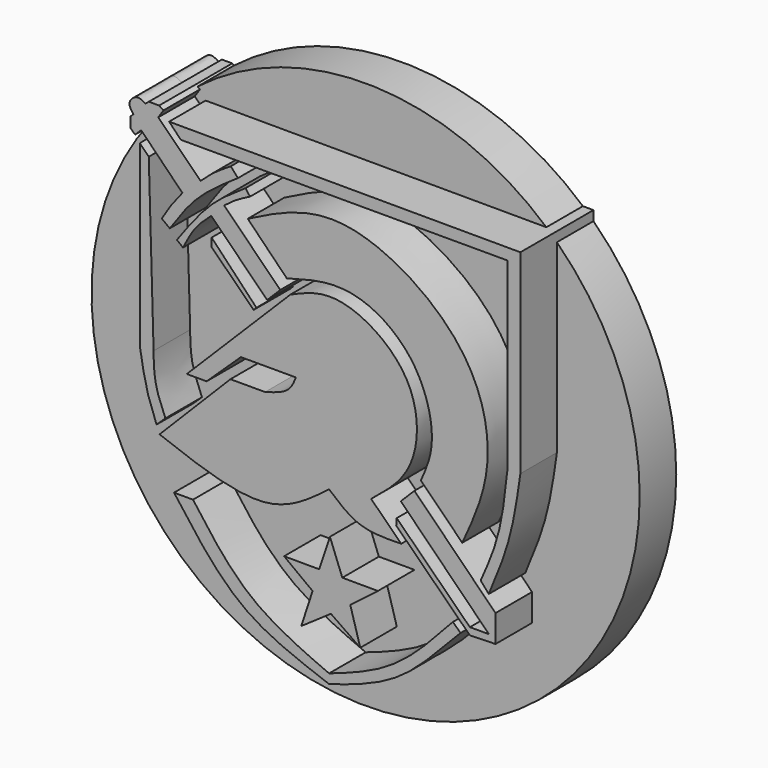
from build123d import *

# Parameters (mm, degrees)
F0_R          = 19.05
F1_DEPTH      = 3.175
F3_DEPTH      = 3.175
F3_DEPTH_BACK = 3.175


with BuildPart() as f1:
    # F0 (on Front) → F1 (new body)
    with BuildSketch(Plane.XZ):
        Circle(F0_R)
    extrude(amount=F1_DEPTH)

    # F2 (on face) → F3 (join, two sides)
    with BuildSketch(Plane.XZ.offset(3.175)) as f3_sk:
        with BuildLine():
            Line((13.2951065898, 14.3205206841), (-11.1195538193, 14.3741192296))
            Line((-11.1195538193, 14.3741192296), (-10.3040672839, 13.5272685438))
            Line((-10.3040672839, 13.5272685438), (12.4042537063, 13.5272685438))
            Line((12.4042537063, 13.5272685438), (12.4042537063, 0.7942219963))
            add(Edge.make_bspline(
                [(12.4042537063, 0.7942219963), (12.2437335062, -0.6935312294), (11.9411104332, -3.4983399235), (10.9847031297, -5.6485725407), (10.5356024578, -6.6582583822)],
                knots=[0, 0, 0, 0, 0.5304294831, 1, 1, 1, 1], degree=3))
            Line((10.5356024578, -6.6582583822), (11.0988598317, -7.3030013591))
            add(Edge.make_bspline(
                [(11.0988598317, -7.3030013591), (11.6204761786, -6.0557843594), (12.6803886436, -3.521467994), (13.0880620978, -0.6713659701), (13.2951065898, 0.7761109737)],
                knots=[0, 0, 0, 0, 0.4921315337, 1, 1, 1, 1], degree=3))
            Line((13.2951065898, 0.7761109737), (13.2951065898, 14.3205206841))
        make_face()
        Polygon((-0.6866836248, -9.621998817), (-3.1270722393, -9.6166413277), (-1.1461181566, -11.1010298133), (-1.9328042399, -13.5020688176), (0.1275643008, -12.078541331), (2.1668851841, -13.4953176603), (1.4733931748, -11.1010298133), (3.3938813927, -9.6218636439), (0.9196144529, -9.6164317802), (0.0594901867, -7.3895342648), align=None)
        Polygon((9.7805182455, -10.2559360764), (11.5665001795, -10.2110812441), (11.5665001795, -8.3170095459), (5.9328516945, -2.6671725791), (4.9845642127, -3.6127429321), (11.1126137586, -9.7584016382), (9.7857490182, -9.7584016382), (4.7025149688, -4.7393189743), (4.6662185341, -5.2061798051), align=None)
        with BuildLine():
            Line((5.0151818607, -6.2073378134), (2.9217640404, -4.1403393261))
            add(Edge.make_bspline(
                [(2.9217640404, -4.1403393261), (4.0017596573, -3.2783505651), (6.2967614913, -1.4466155502), (6.3046824324, 4.5741096828), (0.6642850808, 8.0186176921), (-1.6742123718, 6.9825088021), (-2.6909445878, 6.5320292488)],
                knots=[0, 0, 0, 0, 0.2371028445, 0.503845992, 0.7842820981, 1, 1, 1, 1], degree=3))
            Line((-2.6909445878, 6.5320292488), (-9.8898978904, -0.6679674261))
            Line((-9.8898978904, -0.6679674261), (-8.5116093978, -0.6679674261))
            Line((-8.5116093978, -0.6679674261), (-6.13187678, 1.5893031363))
            Line((-6.13187678, 1.5893031363), (-2.3093123455, 1.5893031363))
            add(Edge.make_bspline(
                [(-2.3093123455, 1.5893031363), (-2.4412960331, 1.2516102423), (-2.7400240864, 0.4872859334), (-3.8346557693, 0.1745585357), (-4.445658531, 0)],
                knots=[0, 0, 0, 0, 0.441818859, 1, 1, 1, 1], degree=3))
            Line((-4.445658531, 0), (-6.857663393, 0))
            Line((-6.857663393, 0), (-11.7843858898, -4.9744602293))
            add(Edge.make_bspline(
                [(-11.7843858898, -4.9744602293), (-9.1052590566, -5.9842742459), (-4.2944262342, -7.7975689191), (-1.3186032332, -5.5161550663), (0, -4.5052482747)],
                knots=[0, 0, 0, 0, 0.5568946027, 1, 1, 1, 1], degree=3))
            add(Edge.make_bspline(
                [(0, -4.5052482747), (0.6645308371, -5.0850922819), (2.0325680841, -6.2787888796), (4.0022715592, -6.2316029467), (5.0151818607, -6.2073378134)],
                knots=[0, 0, 0, 0, 0.48575493, 1, 1, 1, 1], degree=3))
        make_face()
        with BuildLine():
            Line((9.138203226, -10.324401781), (8.6039779708, -9.8225530237))
            add(Edge.make_bspline(
                [(8.6039779708, -9.8225530237), (7.2581361134, -11.3018518624), (4.6817260383, -14.1337450832), (1.5133218063, -15.2414152892), (0, -15.7704707235)],
                knots=[0, 0, 0, 0, 0.5223709806, 1, 1, 1, 1], degree=3))
            add(Edge.make_bspline(
                [(-9.4586806372, -8.2151796669), (-8.2283692319, -9.8966299336), (-5.7644876665, -13.2639841641), (-1.9231894023, -14.9342388384), (0, -15.7704707235)],
                knots=[0, 0, 0, 0, 0.4993386949, 1, 1, 1, 1], degree=3))
            Line((-9.4586806372, -8.2151796669), (-10.7790241018, -8.2151796669))
            add(Edge.make_bspline(
                [(-10.7790241018, -8.2151796669), (-9.2866257772, -10.216307173), (-6.422821017, -14.1998498946), (-1.9977948837, -15.6756193291), (0, -16.4241865277)],
                knots=[0, 0, 0, 0, 0.5129628819, 1, 1, 1, 1], degree=3))
            add(Edge.make_bspline(
                [(9.138203226, -10.324401781), (7.6101712009, -11.8742374182), (5.1667983891, -14.7564398611), (1.7739776455, -15.8896886405), (0, -16.4241865277)],
                knots=[0, 0, 0, 0, 0.5144292418, 1, 1, 1, 1], degree=3))
        make_face()
        with BuildLine():
            Line((6.3793524168, -1.8924199976), (9.2547759414, -4.7678421251))
            add(Edge.make_bspline(
                [(-5.6524286047, 10.2112814784), (-3.6168299799, 11.2475901318), (0.8400975189, 13.5165799408), (10.0967712781, 7.8999192805), (11.6439949159, 0.4259003835), (10.018497176, -3.1076462689), (9.2547759414, -4.7678421251)],
                knots=[0, 0, 0, 0, 0.2433038431, 0.5327118892, 0.7804501082, 1, 1, 1, 1], degree=3))
            Line((-5.6524286047, 10.2112814784), (-2.9393755831, 7.4468469247))
            add(Edge.make_bspline(
                [(-2.9393755831, 7.4468469247), (-1.502485499, 7.851908623), (1.4748090248, 8.691212888), (6.2073016389, 5.7823119551), (7.5729609076, 0.7932677253), (6.7397473926, -1.0815105835), (6.3793524168, -1.8924199976)],
                knots=[0, 0, 0, 0, 0.255622974, 0.5296611682, 0.7965614469, 1, 1, 1, 1], degree=3))
        make_face()
        with BuildLine():
            Line((-3.3923503943, 6.5891323611), (-7.2932774201, 10.4900589213))
            add(Edge.make_bspline(
                [(-7.2932774201, 10.4900589213), (-7.0315208484, 10.6933025832), (-6.4937056941, 11.1108948549), (-5.835183803, 11.4424450599), (-5.4971668869, 11.6126285866)],
                knots=[0, 0, 0, 0, 0.4867035999, 1, 1, 1, 1], degree=3))
            Line((-5.4971668869, 11.6126285866), (-5.8058733121, 12.0335919783))
            add(Edge.make_bspline(
                [(-5.8058733121, 12.0335919783), (-6.6216145688, 11.4978026508), (-8.3538851706, 10.3600250858), (-9.8076282699, 8.3711164696), (-10.57679113, 7.3188021779)],
                knots=[0, 0, 0, 0, 0.4709086767, 1, 1, 1, 1], degree=3))
            Line((-10.57679113, 7.3188021779), (-10.1558286697, 6.9820312783))
            add(Edge.make_bspline(
                [(-8.1913326934, 9.5639401115), (-8.5656748556, 9.2353572907), (-9.3445869881, 8.5516588682), (-9.8785080222, 7.5186039785), (-10.1558286697, 6.9820312783)],
                knots=[0, 0, 0, 0, 0.4805961373, 1, 1, 1, 1], degree=3))
            Line((-8.1913326934, 9.5639401115), (-4.3044373822, 5.6770452643))
            Line((-4.3044373822, 5.6770452643), (-3.3923503943, 6.5891323611))
        make_face()
        Polygon((-5.0493629472, 4.9620792635), (-8.1632686779, 8.2449214533), (-8.1632686779, 7.6555726118), (-5.2445889451, 4.7649578191), align=None)
        with BuildLine():
            Line((-13.060814701, 13.2216596976), (-10.1942410693, 10.310985148))
            add(Edge.make_bspline(
                [(-10.1942410693, 10.310985148), (-10.4796394205, 9.9599556602), (-11.0312334616, 9.2815152529), (-11.4355277717, 8.6053887276), (-11.6306375712, 8.2790944725)],
                knots=[0, 0, 0, 0, 0.5174065165, 1, 1, 1, 1], degree=3))
            Line((-11.6306375712, 8.2790944725), (-11.0709676519, 7.8593418002))
            add(Edge.make_bspline(
                [(-11.0709676519, 7.8593418002), (-10.4892649761, 8.7107849431), (-9.2860247818, 10.4719778261), (-7.3393330178, 11.7938171812), (-6.3337632455, 12.4766174704)],
                knots=[0, 0, 0, 0, 0.4834468451, 1, 1, 1, 1], degree=3))
            Line((-6.3337632455, 12.4766174704), (-6.8334685639, 13.0362873897))
            add(Edge.make_bspline(
                [(-8.9322291315, 11.4572187886), (-8.6711328955, 11.7051084023), (-8.1063637602, 12.2413107045), (-7.2785688232, 12.7583035228), (-6.8334685639, 13.0362873897)],
                knots=[0, 0, 0, 0, 0.4623061346, 1, 1, 1, 1], degree=3))
            Line((-8.9322291315, 11.4572187886), (-11.8766472151, 14.3862600113))
            Line((-11.8766472151, 14.3862600113), (-11.5107083693, 14.935166575))
            Line((-11.5107083693, 14.935166575), (-11.8105309084, 15.1350488886))
            Line((-11.8105309084, 15.1350488886), (-12.5301061198, 15.1350488886))
            Line((-12.5301061198, 15.1350488886), (-12.7699645236, 14.935166575))
            add(Edge.make_bspline(
                [(-13.5973577846, 14.0257730544), (-13.7529213261, 14.2245779674), (-14.0633906595, 14.629918389), (-13.3650961838, 15.3086328914), (-12.9646191681, 15.0573192984), (-12.7699645236, 14.935166575)],
                knots=[0.0055616399, 0.0055616399, 0.0055616399, 0.0055616399, 0.3351525481, 0.6768462626, 1, 1, 1, 1], degree=3))
            Line((-13.5973577846, 14.0257730544), (-13.8105340302, 13.8158267364))
            Line((-13.8105340302, 13.8158267364), (-13.8105340302, 13.1114069372))
            Line((-13.8105340302, 13.1114069372), (-13.483288508, 12.8055869782))
            Line((-13.483288508, 12.8055869782), (-13.060814701, 13.2216596976))
        make_face()
        with BuildLine():
            Line((-13.1551567465, 12.3992469162), (-13.1551567465, 11.7663224228))
            Line((-13.1551567465, 11.7663224228), (-13.1551567465, 0))
            add(Edge.make_bspline(
                [(-11.9918715209, -4.4467356056), (-12.2321727364, -3.8322497133), (-12.7429395262, -2.5261431838), (-13.0124455989, -0.8745602441), (-13.1551567465, 0)],
                knots=[0, 0, 0, 0, 0.4704714955, 1, 1, 1, 1], degree=3))
            Line((-11.9918715209, -4.4467356056), (-11.3757159561, -3.8618131075))
            add(Edge.make_bspline(
                [(-11.3757159561, -3.8618131075), (-11.6411017383, -3.2356494914), (-12.168849425, -1.9904569373), (-12.1878234395, -0.6609463785), (-12.1972560883, 0)],
                knots=[0, 0, 0, 0, 0.5028648895, 1, 1, 1, 1], degree=3))
            Line((-12.1972560883, 0), (-12.5318219721, 11.7663224228))
            Line((-12.5318219721, 11.7663224228), (-13.1551567465, 12.3992469162))
        make_face()
    extrude(amount=F3_DEPTH)
    extrude(f3_sk.sketch, amount=-F3_DEPTH_BACK)


solid = f1.part
